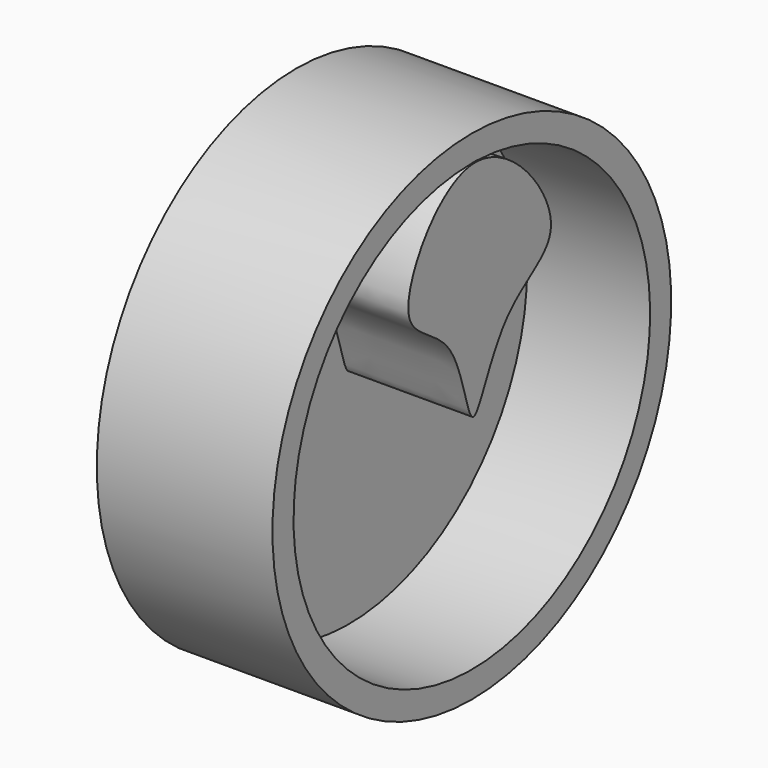
from build123d import *

# Parameters (mm, degrees)
F3_DEPTH = 25


with BuildPart() as f1:
    # F0 (on Front) → F1 (revolve)
    with BuildSketch(Plane.XZ):
        Polygon((0, 50.149820745), (0, 0), (10.6043694541, 0), (10.6043694541, 44.8476374149), (35.3478901088, 44.8476374149), (35.3478901088, 50.149820745), align=None)
    revolve(axis=Axis((0, 0, 0), (1, 0, 0)))

    # F2 (on face) → F3 (join)
    with BuildSketch(Plane.YZ.offset(10.6043694541)):
        with BuildLine():
            add(Edge.make_bspline(
                [(0, 44.8476374149), (-9.1265415619, 44.2992200217), (-23.3679723185, 21.1281300087), (-3.2381405586, 18.381144121), (-0.7194922898, -9.1785815317), (6.4144378489, 17.87080484), (27.8238627674, 22.6801088656), (9.3750042169, 45.4109850247), (0, 44.8476374149)],
                knots=[0, 0, 0, 0, 0.1942983175, 0.3399267632, 0.4912543668, 0.6464801915, 0.8004120692, 1, 1, 1, 1], degree=3))
        make_face()
    extrude(amount=F3_DEPTH)


solid = f1.part
